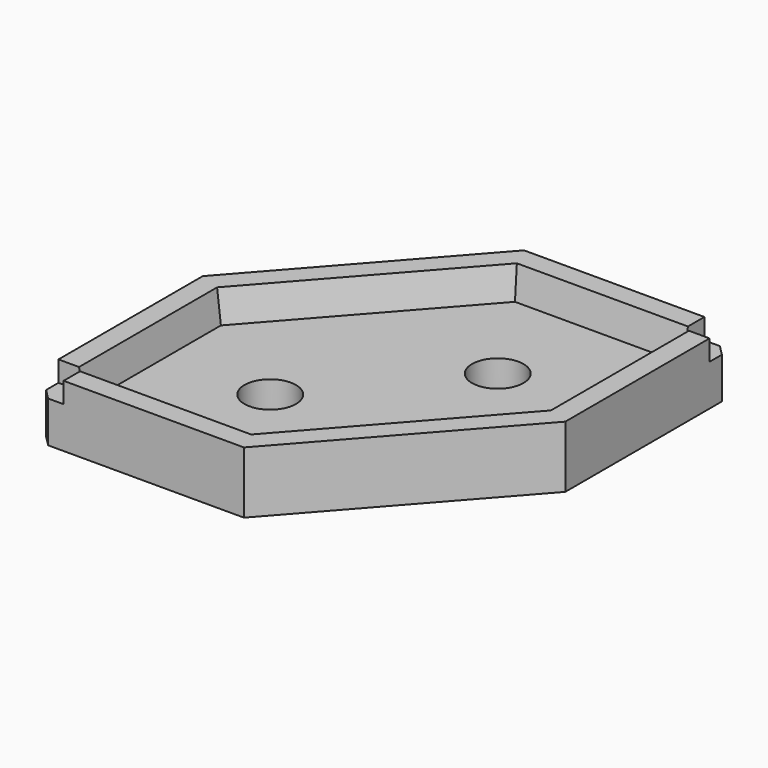
from build123d import *

# Parameters (mm, degrees)
F1_DEPTH = 6
F3_DEPTH = 3
F3_TAPER = 10
F4_SIZE  = 1
F5_W     = 2.5
F5_H     = 2.5
F6_DEPTH = 2
F7_R     = 2.5
F8_DEPTH = 3


with BuildPart() as f1:
    # F0 (on Top) → F1 (new body)
    with BuildSketch(Plane.XY):
        Polygon((0, 20), (0, 0), (20, 0), (36.3692647093, 18.5151209051), (36.3692647093, 38.5151209051), (16.3692647093, 38.5151209051), align=None)
    extrude(amount=F1_DEPTH)

    # F2 (on face) → F3 (cut)
    with BuildSketch(Plane.XY.offset(6)):
        Polygon((2, 19.2426673516), (2, 2), (19.0986453142, 2), (34.3692647093, 19.2724535535), (34.3692647093, 36.5151209051), (17.2706193952, 36.5151209051), align=None)
    extrude(amount=-F3_DEPTH, taper=F3_TAPER, mode=Mode.SUBTRACT)

    # F4
    f4_edges = [f1.edges().sort_by_distance(p)[0] for p in [
        (0, 0, 3),
        (36.369265, 38.515121, 3),
    ]]
    chamfer(f4_edges, length=F4_SIZE)

    # F5 (on face) → F6 (cut)
    with BuildSketch(Plane.XY.offset(6)):
        with Locations((1.25, 1.25)):
            Rectangle(F5_W, F5_H)
        with Locations((35.1192647093, 37.2651209051)):
            Rectangle(F5_W, F5_H)
    extrude(amount=-F6_DEPTH, mode=Mode.SUBTRACT)

    # F7 (on face) → F8 (cut, through all)
    with BuildSketch(Plane.XY.offset(3)):
        with Locations((12.5289809421, 12.5289809421)):
            Circle(F7_R)
        with Locations((23.8402837672, 25.9861399629)):
            Circle(F7_R)
    extrude(amount=-F8_DEPTH, mode=Mode.SUBTRACT)


solid = f1.part
